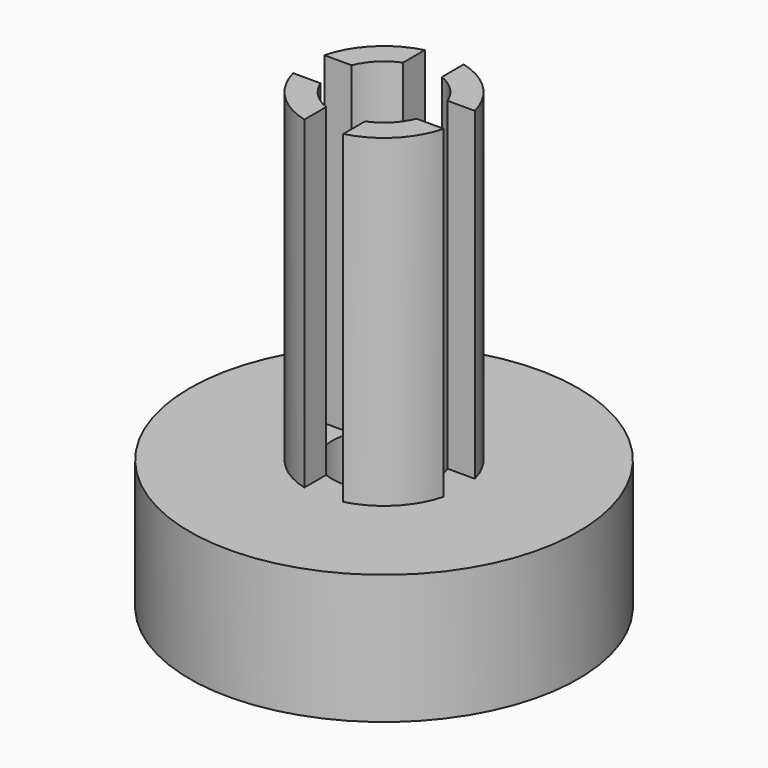
from build123d import *

# Parameters (mm, degrees)
F3_D     = 8
F5_DEPTH = 12.5
F7_DEPTH = 12.5


with BuildPart() as f1:
    # F0 (on Front) → F1 (revolve)
    with BuildSketch(Plane.XZ):
        Polygon((-15, 0), (0, 0), (0, 35), (-6, 35), (-6, 10), (-15, 10), align=None)
    revolve(axis=Axis((0, 0, 17.5), (0, 0, 1)))

    # F3 (through all)
    with Locations(Plane(origin=(0, 0, 0), x_dir=(1, 0, 0), z_dir=(0, 0, -1))):
        with Locations((0, 0)):
            Hole(F3_D / 2)

    # F4 (on Front) → F5 (cut, symmetric)
    with BuildSketch(Plane.XZ):
        Polygon((-1.5, 10), (0, 10), (1.5, 10), (1.5, 35), (0, 35), (-1.5, 35), align=None)
    extrude(amount=F5_DEPTH, both=True, mode=Mode.SUBTRACT)

    # F6 (on Right) → F7 (cut, symmetric)
    with BuildSketch(Plane.YZ):
        Polygon((-1.5, 10), (0, 10), (1.5, 10), (1.5, 35.1293485655), (0, 35.1293485655), (-1.5, 35.1293485655), align=None)
    extrude(amount=F7_DEPTH, both=True, mode=Mode.SUBTRACT)


solid = f1.part
